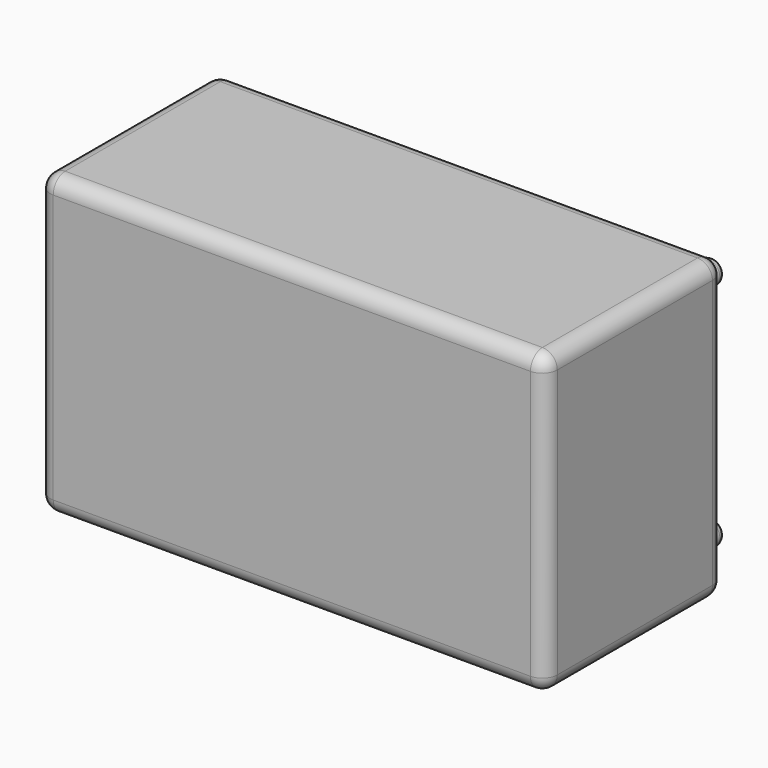
from build123d import *

# Parameters (mm, degrees)
SKETCH_W     = 34
SKETCH_H     = 20
PAD_DEPTH    = 15
SKETCH001_R  = 0.8
PAD001_DEPTH = 2
FILLET_R     = 1
FILLET001_R  = 0.5


with BuildPart() as part:
    # Sketch → Pad (new body)
    with BuildSketch(Plane.XZ):
        with Locations((18.71189, -10.724301)):
            Rectangle(SKETCH_W, SKETCH_H)
    extrude(amount=PAD_DEPTH)

    # Sketch001 → Pad001 (join)
    with BuildSketch(Plane.XZ):
        with Locations((4.01189, -13.224301)):
            Circle(SKETCH001_R)
        with Locations((4.01189, -8.224301)):
            Circle(SKETCH001_R)
        with Locations((33.41189, -18.424301)):
            Circle(SKETCH001_R)
        with Locations((33.41189, -3.024301)):
            Circle(SKETCH001_R)
    extrude(amount=-PAD001_DEPTH)

    # Fillet
    fillet_edges = [part.edges().sort_by_distance(p)[0] for p in [
        (35.71189, -7.5, -20.724301),
        (18.71189, -15, -20.724301),
        (1.71189, -7.5, -20.724301),
        (18.71189, 0, -20.724301),
        (35.71189, -15, -10.724301),
        (35.71189, 0, -10.724301),
        (18.71189, -15, -0.724301),
        (35.71189, -7.5, -0.724301),
        (1.71189, -7.5, -0.724301),
        (1.71189, -15, -10.724301),
        (1.71189, 0, -10.724301),
        (18.71189, 0, -0.724301),
    ]]
    fillet(fillet_edges, radius=FILLET_R)

    # Fillet001
    fillet001_edges = [part.edges().sort_by_distance(p)[0] for p in [
        (3.21189, 2, -13.224301),
        (3.21189, 2, -8.224301),
        (32.61189, 2, -3.024301),
        (32.61189, 2, -18.424301),
    ]]
    fillet(fillet001_edges, radius=FILLET001_R)


solid = part.part
